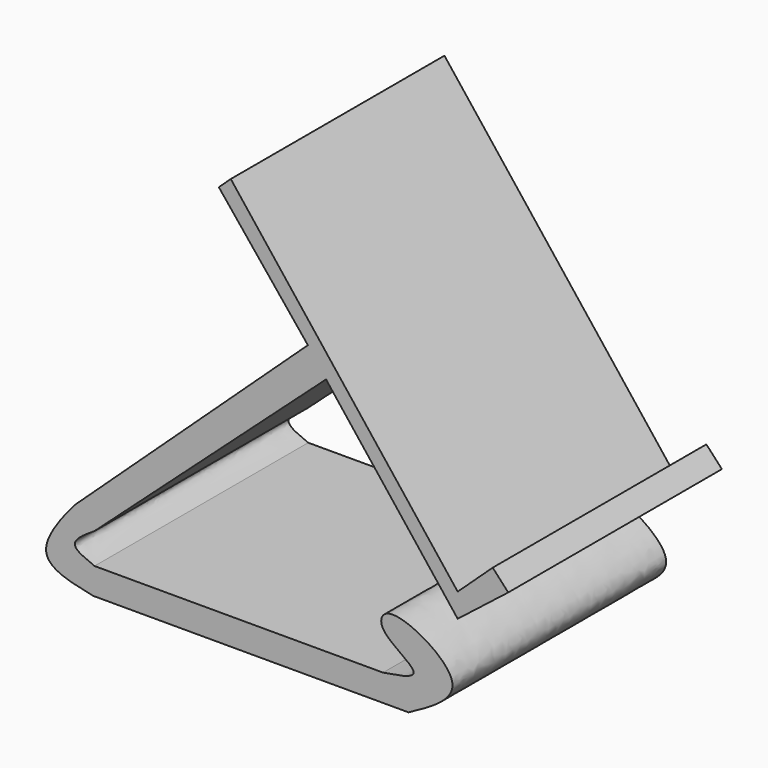
from build123d import *

# Parameters (mm, degrees)
F1_DEPTH = 50.8


with BuildPart() as f1:
    # F0 (on Front) → F1 (new body)
    with BuildSketch(Plane.XZ):
        with BuildLine():
            Line((20.6277817488, -30.0323027503), (-34.2488847673, -30.0323027503))
            add(Edge.make_bspline(
                [(-34.2488847673, -30.0323027503), (-36.0787812183, -29.2977031807), (-39.8668247047, -27.7770187107), (-36.1633274562, -25.4029212819), (-34.2488847673, -24.1756830364)],
                knots=[0, 0, 0, 0, 0.4830716589, 1, 1, 1, 1], degree=3))
            Line((-34.2488847673, -24.1756830364), (9.7853951156, 15.5415115878))
            Line((9.7853951156, 15.5415115878), (34.8244979978, -16.4049286395))
            Line((34.8244979978, -16.4049286395), (44.4421577446, -8.8667625661))
            Line((44.4421577446, -8.8667625661), (41.4824201897, -5.6793528915))
            Line((41.4824201897, -5.6793528915), (34.8244979978, -11.8617092126))
            Line((34.8244979978, -11.8617092126), (-8.334636312, 43.2033908023))
            Line((-8.334636312, 43.2033908023), (-10.6091376005, 41.0913538915))
            Line((-10.6091376005, 41.0913538915), (6.3317269087, 20.1464034617))
            Line((6.3317269087, 20.1464034617), (-37.9903614521, -21.0098214447))
            add(Edge.make_bspline(
                [(-34.5366895199, -35.1123027503), (-39.0992799631, -34.1722735839), (-48.2870023142, -32.2793298514), (-38.1493600414, -21.2224009726), (-37.9903614521, -21.0098214447)],
                knots=[0, 0, 0, 0, 0.4519130419, 0.9100206577, 0.9100206577, 0.9100206577, 0.9100206577], degree=3))
            Line((-34.5366895199, -35.1123027503), (25.4735462368, -35.1123027503))
            add(Edge.make_bspline(
                [(20.6277817488, -30.0323027503), (23.6419212871, -29.5621478175), (30.0674537837, -28.5598731181), (19.0463962249, -23.4722920894), (21.4760696746, -17.2006300885), (39.6398335391, -27.503648005), (30.049569168, -32.6545396225), (25.4735462368, -35.1123027503)],
                knots=[0, 0, 0, 0, 0.1748534376, 0.3727519681, 0.4984355469, 0.7606770418, 1, 1, 1, 1], degree=3))
        make_face()
    extrude(amount=F1_DEPTH)


solid = f1.part
